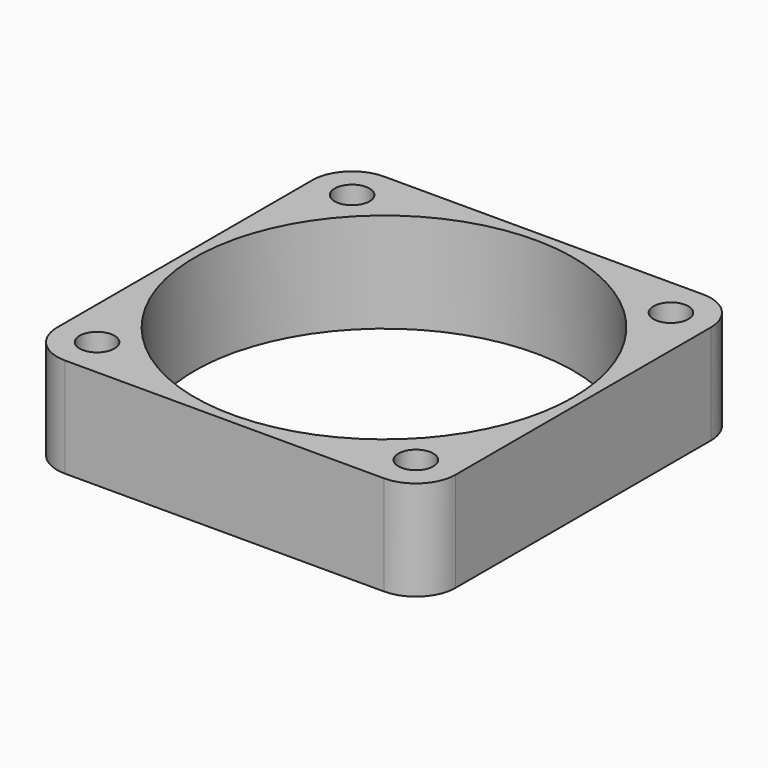
from build123d import *

# Parameters (mm, degrees)
SKETCH_W     = 40
SKETCH_H     = 40
SKETCH_R     = 1.75
PAD_DEPTH    = 10
FILLET_R     = 4
SKETCH001_R  = 19
POCKET_DEPTH = 10.001


with BuildPart() as part:
    # Sketch → Pad (new body)
    with BuildSketch(Plane.XY):
        Rectangle(SKETCH_W, SKETCH_H)
        with Locations((-16, 16)):
            Circle(SKETCH_R, mode=Mode.SUBTRACT)
        with Locations((16, 16)):
            Circle(SKETCH_R, mode=Mode.SUBTRACT)
        with Locations((16, -16)):
            Circle(SKETCH_R, mode=Mode.SUBTRACT)
        with Locations((-16, -16)):
            Circle(SKETCH_R, mode=Mode.SUBTRACT)
    extrude(amount=PAD_DEPTH)

    # Fillet
    fillet_edges = [part.edges().sort_by_distance(p)[0] for p in [
        (20, -20, 5),
        (-20, -20, 5),
        (20, 20, 5),
        (-20, 20, 5),
    ]]
    fillet(fillet_edges, radius=FILLET_R)

    # Sketch001 (on Face5 of Fillet) → Pocket (cut, through all)
    with BuildSketch(Plane.XY.offset(10)):
        Circle(SKETCH001_R)
    extrude(amount=-POCKET_DEPTH, mode=Mode.SUBTRACT)


solid = part.part
